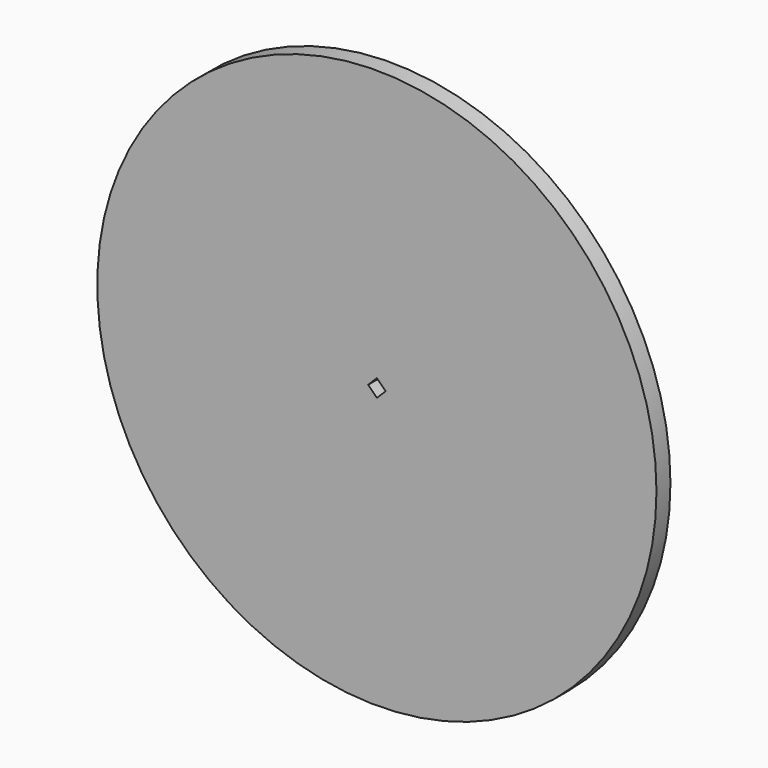
from build123d import *

# Parameters (mm, degrees)
F0_R     = 50.8
F1_DEPTH = 3.175


with BuildPart() as f1:
    # F0 (on Front) → F1 (new body)
    with BuildSketch(Plane.XZ):
        Circle(F0_R)
        Polygon((-1.5875, 0), (0, 1.5875), (1.5875, 0), (0, -1.5875), align=None, mode=Mode.SUBTRACT)
    extrude(amount=F1_DEPTH)


solid = f1.part
